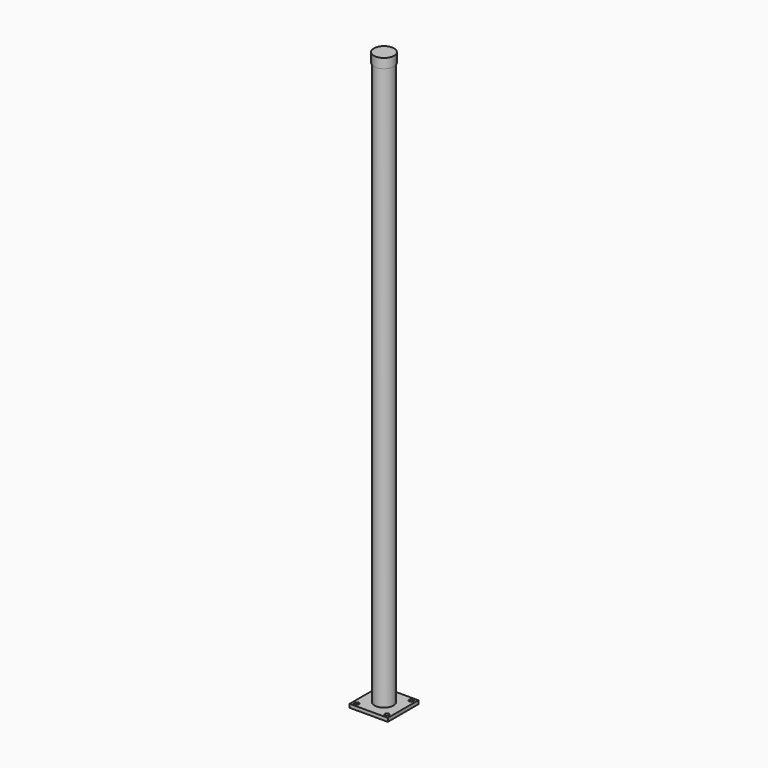
from build123d import *

# Parameters (mm, degrees)
F0_R     = 25.4
F0_R_2   = 22.225
F1_DEPTH = 1524
F2_W     = 101.6
F2_H     = 101.6
F2_R     = 5.489771
F3_DEPTH = 9.525
F4_R     = 26.792936
F5_DEPTH = 25.4


with BuildPart() as f1:
    # F0 (on Top) → F1 (new body)
    with BuildSketch(Plane.XY):
        Circle(F0_R)
        Circle(F0_R_2, mode=Mode.SUBTRACT)
    extrude(amount=F1_DEPTH)

    # F2 (on Top) → F3 (join)
    with BuildSketch(Plane.XY):
        Rectangle(F2_W, F2_H)
        with Locations((-40.11862, -40.534951)):
            Circle(F2_R, mode=Mode.SUBTRACT)
        with Locations((40.11862, -40.534951)):
            Circle(F2_R, mode=Mode.SUBTRACT)
        with Locations((-40.11862, 40.534951)):
            Circle(F2_R, mode=Mode.SUBTRACT)
        with Locations((40.11862, 40.534951)):
            Circle(F2_R, mode=Mode.SUBTRACT)
    extrude(amount=-F3_DEPTH)

    # F4 (on face) → F5 (join)
    with BuildSketch(Plane.XY.offset(1524)):
        Circle(F4_R)
    extrude(amount=-F5_DEPTH)


solid = f1.part
